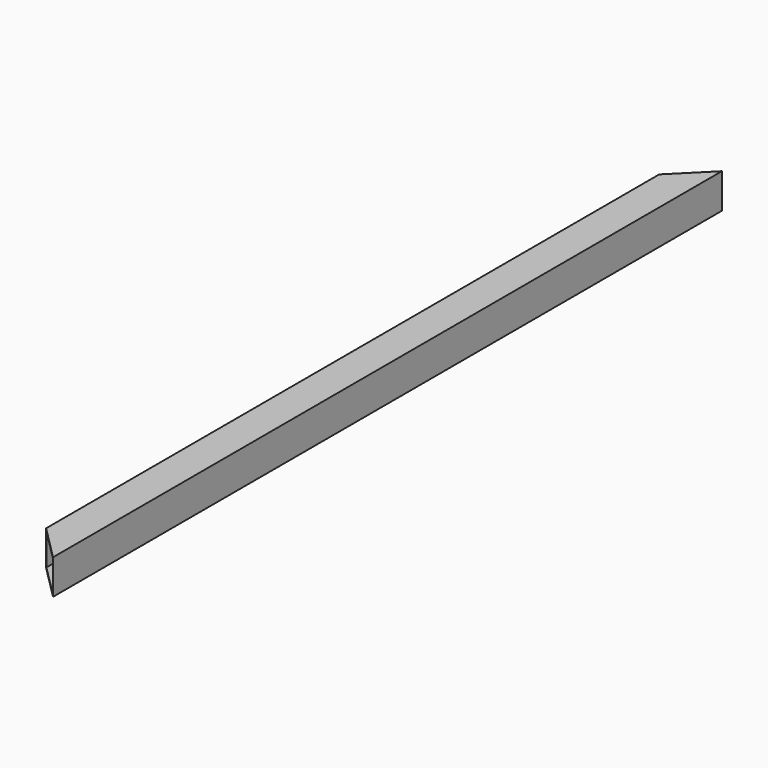
from build123d import *

# Parameters (mm, degrees)
F0_W     = 50
F0_H     = 50
F0_W_2   = 46
F0_H_2   = 46
F1_DEPTH = 1200
F3_DEPTH = 50
F4_DEPTH = 50


with BuildPart() as f1:
    # F0 (on Front) → F1 (new body)
    with BuildSketch(Plane.XZ):
        with Locations((25, 25)):
            Rectangle(F0_W, F0_H)
        with Locations((25, 25)):
            Rectangle(F0_W_2, F0_H_2, mode=Mode.SUBTRACT)
    extrude(amount=F1_DEPTH)

    # F2 (on face) → F3 (cut)
    with BuildSketch(Plane.XY.offset(50)):
        Polygon((50, 0), (0, 0), (0, -50), align=None)
    extrude(amount=-F3_DEPTH, mode=Mode.SUBTRACT)

    # F2 (on face) → F4 (cut)
    with BuildSketch(Plane.XY.offset(50)):
        Polygon((50, 0), (0, 0), (0, -50), align=None)
        Polygon((0, -1150), (0, -1200), (50, -1200), align=None)
    extrude(amount=-F4_DEPTH, mode=Mode.SUBTRACT)


solid = f1.part
